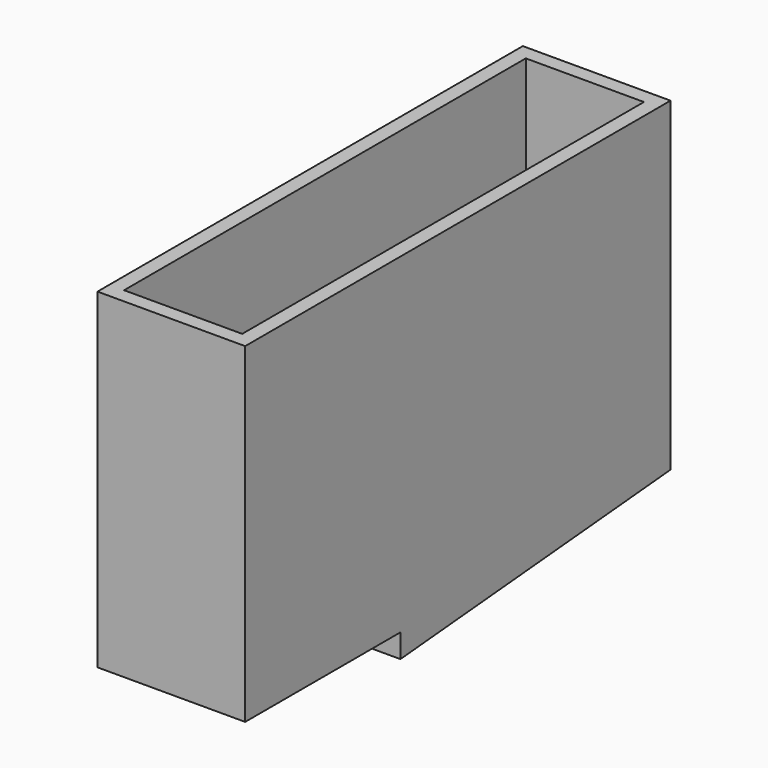
from build123d import *

# Parameters (mm, degrees)
F0_W          = 25
F0_H          = 60
F1_DEPTH      = 45
F1_DEPTH_BACK = 45
F3_DEPTH      = 25
F4_W          = 32.849738
F4_H          = 4
F5_DEPTH      = 25
F6_T          = -2.5


with BuildPart() as f1:
    # F0 (on Front) → F1 (new body, two sides)
    with BuildSketch(Plane.XZ) as f1_sk:
        Rectangle(F0_W, F0_H)
    extrude(amount=F1_DEPTH)
    extrude(f1_sk.sketch, amount=-F1_DEPTH_BACK)

    # F2 (on face) → F3 (cut)
    with BuildSketch(Plane(origin=(-12.5, 0, 0), x_dir=(0, -1, 0), z_dir=(-1, 0, 0))):
        Polygon((-45, -30), (12.150262, -30), (-45, -25), align=None)
    extrude(amount=-F3_DEPTH, mode=Mode.SUBTRACT)

    # F4 (on face) → F5 (cut)
    with BuildSketch(Plane(origin=(-12.5, 0, 0), x_dir=(0, -1, 0), z_dir=(-1, 0, 0))):
        with Locations((28.575131, -28)):
            Rectangle(F4_W, F4_H)
    extrude(amount=-F5_DEPTH, mode=Mode.SUBTRACT)

    # F6
    f6_openings = [f1.faces().sort_by_distance(p)[0] for p in [
        (0, -28.575131, -26),
        (0, -12.150262, -28),
        (0, 0, 30),
    ]]
    offset(amount=F6_T, openings=f6_openings)


solid = f1.part
